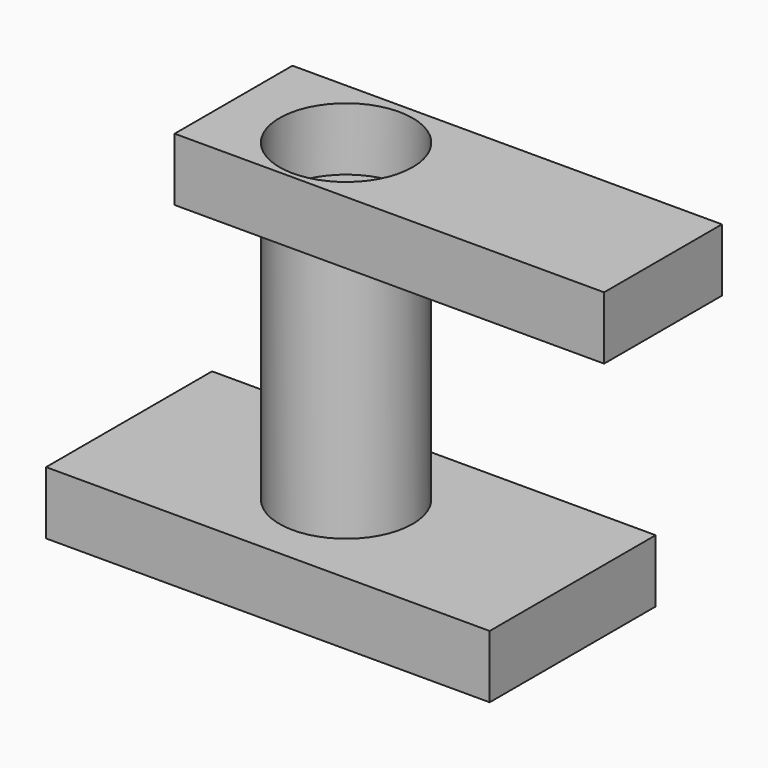
from build123d import *

# Parameters (mm, degrees)
F0_W     = 179.377258
F0_H     = 83.881452
F1_DEPTH = 25.4
F2_R     = 26.926696
F3_DEPTH = 101.6
F4_W     = 173.662249
F4_H     = 59.546614
F4_R     = 26.926696
F5_DEPTH = 25.4


with BuildPart() as f1:
    # F0 (on Top) → F1 (new body)
    with BuildSketch(Plane.XY):
        Rectangle(F0_W, F0_H)
    extrude(amount=F1_DEPTH)


with BuildPart() as f3:
    # F2 (on face) → F3 (new body)
    with BuildSketch(Plane.XY.offset(25.4)):
        with Locations((-1.935726, 0)):
            Circle(F2_R)
    extrude(amount=F3_DEPTH)


with BuildPart() as f5:
    # F4 (on face) → F5 (new body)
    with BuildSketch(Plane.XY.offset(127)):
        with Locations((38.806689, 0.737418)):
            Rectangle(F4_W, F4_H)
        with Locations((-1.935726, 0)):
            Circle(F4_R, mode=Mode.SUBTRACT)
    extrude(amount=F5_DEPTH)


solid = Compound([f1.part, f3.part, f5.part])
